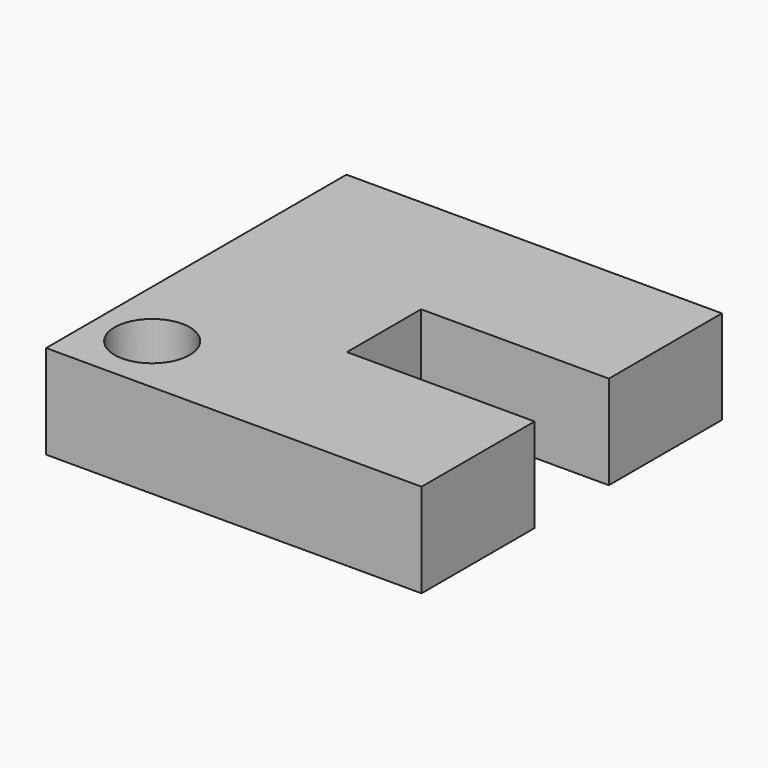
from build123d import *

# Parameters (mm, degrees)
F1_DEPTH = 6.35
F2_R     = 2.54
F3_DEPTH = 6.351


with BuildPart() as f1:
    # F0 (on Top) → F1 (new body)
    with BuildSketch(Plane.XY):
        Polygon((0, 25.4), (0, 0), (25.4, 0), (25.4, 9.5631), (12.7, 9.5631), (12.7, 15.8369), (25.4, 15.8369), (25.4, 25.4), align=None)
    extrude(amount=F1_DEPTH)

    # F2 (on face) → F3 (cut, through all)
    with BuildSketch(Plane.XY.offset(6.35)):
        with Locations((3.882985, 4.118206)):
            Circle(F2_R)
    extrude(amount=-F3_DEPTH, mode=Mode.SUBTRACT)


solid = f1.part
